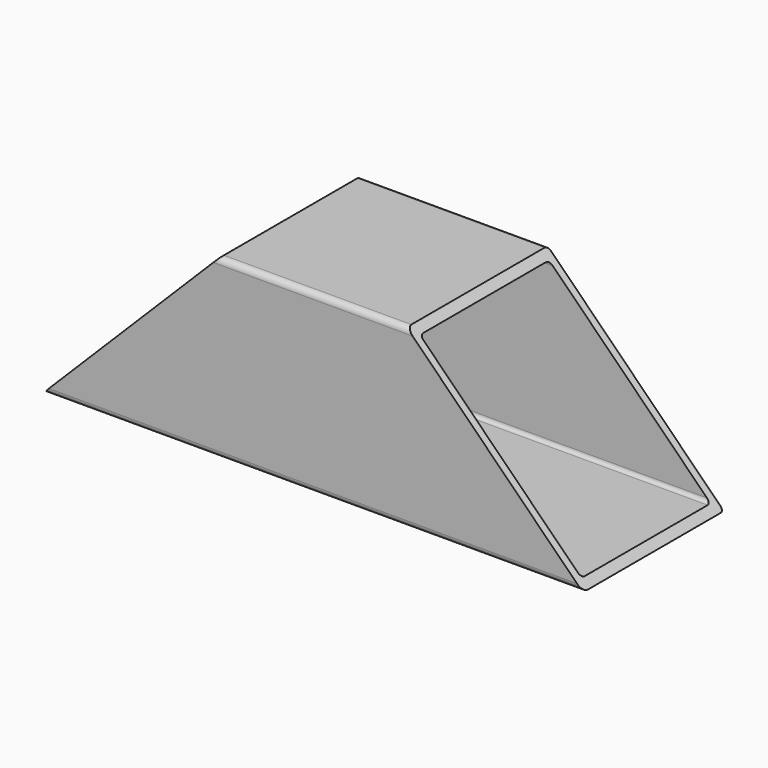
from build123d import *

# Parameters (mm, degrees)
F1_DEPTH = 466.973412
F3_DEPTH = 152.401
F4_R     = 5.08


with BuildPart() as f1:
    # F0 (on Right) → F1 (new body)
    with BuildSketch(Plane.YZ):
        with BuildLine():
            Line((73.025, 76.2), (-76.2, 76.2))
            Line((-76.2, 76.2), (-76.2, -76.2))
            Line((-76.2, -76.2), (73.025, -76.2))
            ThreePointArc((73.025, -76.2), (75.270064, -75.270064), (76.2, -73.025))
            Line((76.2, -73.025), (76.2, 73.025))
            ThreePointArc((76.2, 73.025), (75.270064, 75.270064), (73.025, 76.2))
        make_face()
        with BuildLine():
            Line((-69.850001, -66.674999), (-69.850001, 66.675001))
            ThreePointArc((-69.850001, 66.675001), (-68.920065, 68.920065), (-66.675001, 69.850001))
            Line((-66.675001, 69.850001), (66.675001, 69.850001))
            ThreePointArc((66.675001, 69.850001), (68.920065, 68.920065), (69.850001, 66.675001))
            Line((69.850001, 66.675001), (69.850001, -66.674999))
            ThreePointArc((69.850001, -66.674999), (68.920065, -68.920063), (66.675001, -69.849999))
            Line((66.675001, -69.849999), (-66.675001, -69.849999))
            ThreePointArc((-66.675001, -69.849999), (-68.920065, -68.920063), (-69.850001, -66.674999))
        make_face(mode=Mode.SUBTRACT)
    extrude(amount=F1_DEPTH)

    # F2 (on face) → F3 (cut, through all)
    with BuildSketch(Plane.XZ.offset(76.2)):
        Polygon((0, 76.2), (0, -76.2), (152.4, 76.2), align=None)
        Polygon((314.573412, 76.2), (466.973412, -76.2), (466.973412, 76.2), align=None)
    extrude(amount=-F3_DEPTH, mode=Mode.SUBTRACT)

    # F4
    f4_edges = [f1.edges().sort_by_distance(p)[0] for p in [
        (233.486706, -76.2, 76.2),
        (233.486706, -76.2, -76.2),
    ]]
    fillet(f4_edges, radius=F4_R)


solid = f1.part
